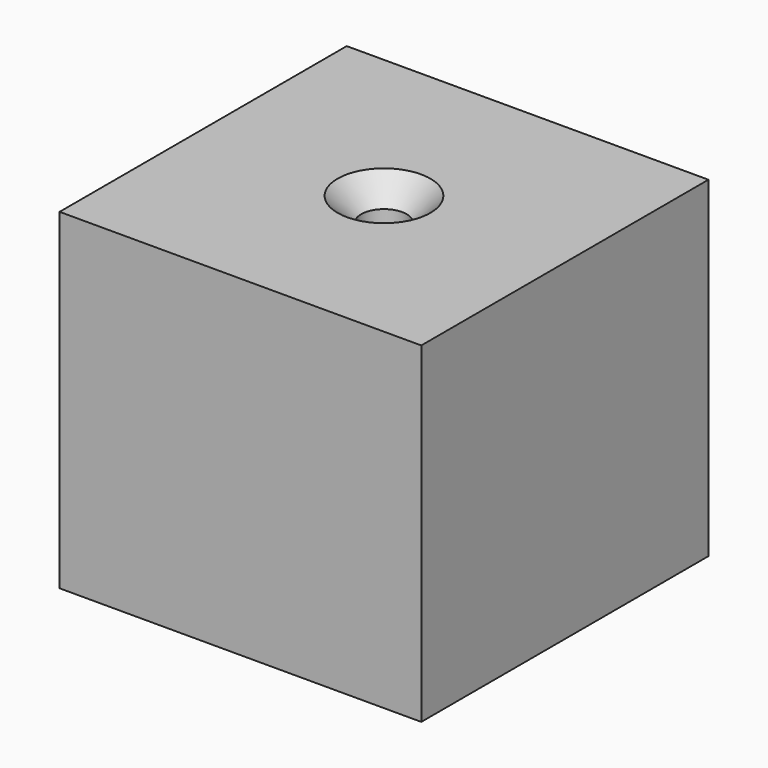
from build123d import *

# Parameters (mm, degrees)
F0_W           = 43.6590723693
F0_H           = 43.3258935809
F1_DEPTH       = 40.005
F3_D           = 5.5
F3_DEPTH       = 5
F3_CSINK_D     = 11.2
F3_CSINK_ANGLE = 90
F3_TIP         = 1.6523667023


with BuildPart() as f1:
    # F0 (on Top) → F1 (new body)
    with BuildSketch(Plane.XY):
        with Locations((21.8295361847, -21.6629467905)):
            Rectangle(F0_W, F0_H)
    extrude(amount=F1_DEPTH)

    # F3
    with Locations(Plane.XY.offset(40.005)):
        with Locations((21.8295361847, -21.6629467905)):
            CounterSinkHole(F3_D / 2, F3_CSINK_D / 2, depth=F3_DEPTH, counter_sink_angle=F3_CSINK_ANGLE)
            with Locations((0, 0, -(F3_DEPTH + F3_TIP / 2))):  # 118° drill point
                Cone(0, F3_D / 2, F3_TIP, mode=Mode.SUBTRACT)


solid = f1.part
